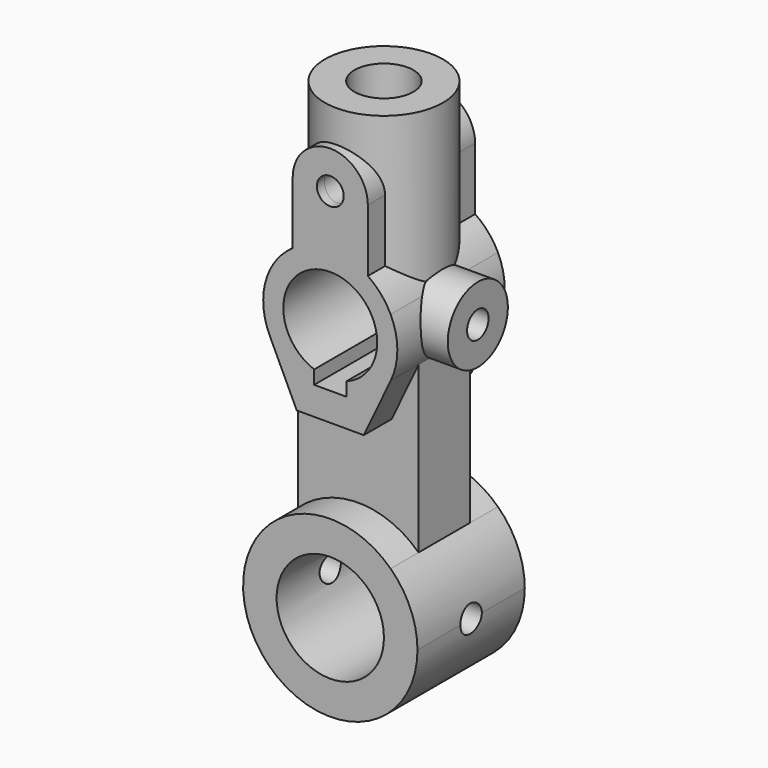
from build123d import *

# Parameters (mm, degrees)
F0_R      = 20
F0_R_2    = 5
F1_DEPTH  = 25
F4_DEPTH  = 12
F3_R      = 22
F3_R_2    = 11
F5_DEPTH  = 59.6
F6_DEPTH  = 35.2
F7_R      = 5
F8_DEPTH  = 50.001
F10_R     = 14
F10_R_2   = 5
F11_DEPTH = 13.9
F13_R     = 5
F14_DEPTH = 65.101
F16_DEPTH = 25
F15_R     = 5
F17_DEPTH = 25


with BuildPart() as f1:
    # F0 (on Front) → F1 (new body, symmetric)
    with BuildSketch(Plane.XZ):
        with BuildLine():
            ThreePointArc((-22.5, 23.452079), (-12.747549, -29.895652), (32.5, 0))
            ThreePointArc((32.5, 0), (29.895652, 12.747549), (22.5, 23.452079))
            ThreePointArc((22.5, 23.452079), (0, 32.5), (-22.5, 23.452079))
        make_face()
        Circle(F0_R, mode=Mode.SUBTRACT)
        with BuildLine():
            Line((12.5, 64), (22.5, 85.100663))
            Line((22.5, 85.100663), (22.591396, 85.293514))
            ThreePointArc((22.591396, 85.293514), (24.999776, 96.105763), (22.5, 106.897247))
            ThreePointArc((22.5, 106.897247), (18.898317, 112.366234), (14, 116.712315))
            Line((14, 116.712315), (14, 140))
            ThreePointArc((14, 140), (0, 154), (-14, 140))
            Line((-14, 140), (-14, 116.712315))
            ThreePointArc((-14, 116.712315), (-18.898317, 112.366234), (-22.5, 106.897247))
            ThreePointArc((-22.5, 106.897247), (-24.999776, 96.105763), (-22.591396, 85.293514))
            Line((-22.591396, 85.293514), (-22.5, 85.100663))
            Line((-22.5, 85.100663), (-12.5, 64))
            Line((-12.5, 64), (12.5, 64))
        make_face()
        with BuildLine():
            ThreePointArc((-6, 79.560718), (0, 113.5), (6, 79.560718))
            Line((6, 79.560718), (6, 74.5))
            Line((6, 74.5), (-6, 74.5))
            Line((-6, 74.5), (-6, 79.560718))
        make_face(mode=Mode.SUBTRACT)
        with Locations((0, 140)):
            Circle(F0_R_2, mode=Mode.SUBTRACT)
    extrude(amount=F1_DEPTH, both=True)

    # F0 (on Front) → F4 (join, symmetric)
    with BuildSketch(Plane.XZ):
        with BuildLine():
            ThreePointArc((-22.5, 23.452079), (0, 32.5), (22.5, 23.452079))
            Line((22.5, 23.452079), (22.5, 85.100663))
            Line((22.5, 85.100663), (12.5, 64))
            Line((12.5, 64), (-12.5, 64))
            Line((-12.5, 64), (-22.5, 85.100663))
            Line((-22.5, 85.100663), (-22.5, 23.452079))
        make_face()
    extrude(amount=F4_DEPTH, both=True)

    # F3 (on offset) → F5 (join)
    with BuildSketch(Plane.XY.offset(166)):
        Circle(F3_R)
        Circle(F3_R_2, mode=Mode.SUBTRACT)
    extrude(amount=-F5_DEPTH)

    # F0 (on Front) → F6 (cut, symmetric)
    with BuildSketch(Plane.XZ):
        with BuildLine():
            Line((6, 74.5), (6, 79.560718))
            ThreePointArc((6, 79.560718), (0, 113.5), (-6, 79.560718))
            Line((-6, 79.560718), (-6, 74.5))
            Line((-6, 74.5), (6, 74.5))
        make_face()
    extrude(amount=F6_DEPTH, both=True, mode=Mode.SUBTRACT)

    # F7 (on face) → F8 (cut, through all)
    with BuildSketch(Plane.XZ.offset(25)):
        with Locations((0, 140)):
            Circle(F7_R)
    extrude(amount=-F8_DEPTH, mode=Mode.SUBTRACT)

    # F10 (on offset) → F11 (join)
    with BuildSketch(Plane.YZ.offset(35)):
        with Locations((0, 97.446382)):
            Circle(F10_R)
        with Locations((0, 97.446382)):
            Circle(F10_R_2, mode=Mode.SUBTRACT)
    extrude(amount=-F11_DEPTH)

    # F13 (on offset) → F14 (cut, through all)
    with BuildSketch(Plane.YZ.offset(32.6)):
        Circle(F13_R)
    extrude(amount=-F14_DEPTH, mode=Mode.SUBTRACT)

    # F3 (on offset) → F16 (cut)
    with BuildSketch(Plane.XY.offset(166)):
        Circle(F3_R_2)
    extrude(amount=-F16_DEPTH, mode=Mode.SUBTRACT)

    # F15 (on face) → F17 (cut)
    with BuildSketch(Plane.YZ.offset(35)):
        with Locations((0, 97.446382)):
            Circle(F15_R)
    extrude(amount=-F17_DEPTH, mode=Mode.SUBTRACT)


solid = f1.part
